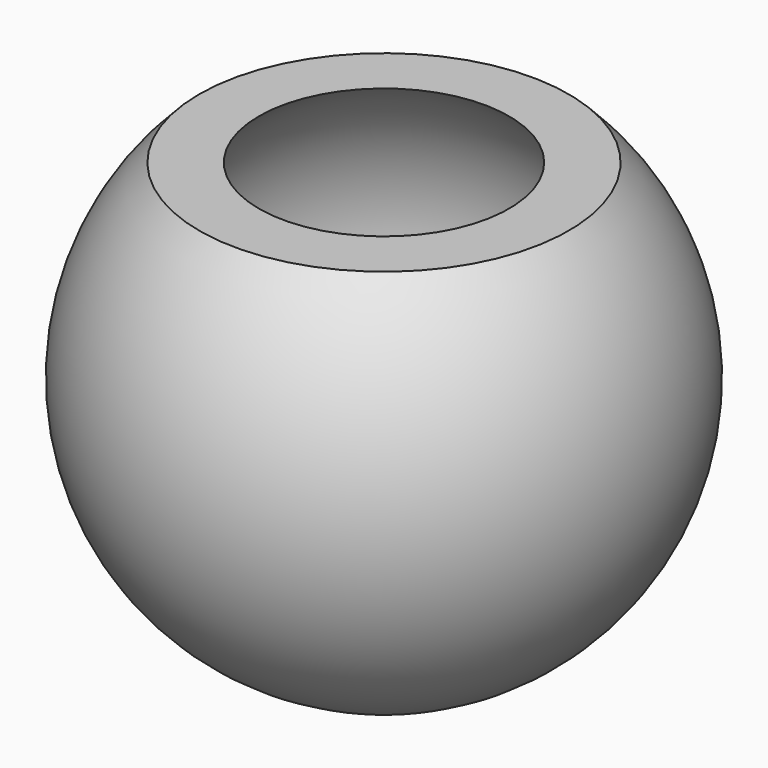
from build123d import *

# Parameters (mm, degrees)
F2_W     = 233.821573
F2_H     = 64.181482
F3_DEPTH = 63.5


with BuildPart() as f1:
    # F0 (on Front) → F1 (revolve)
    with BuildSketch(Plane.XZ):
        with BuildLine():
            ThreePointArc((0, -38.1), (-38.1, 0), (0, 38.1))
            Line((0, 38.1), (0, 44.45))
            ThreePointArc((0, 44.45), (-44.45, 0), (0, -44.45))
            Line((0, -44.45), (0, -38.1))
        make_face()
    revolve(axis=Axis((0, 0, 0), (0, 0, -1)))

    # F2 (on Right) → F3 (cut, symmetric)
    with BuildSketch(Plane.YZ):
        with Locations((5.654542, 63.840741)):
            Rectangle(F2_W, F2_H)
    extrude(amount=F3_DEPTH, both=True, mode=Mode.SUBTRACT)


solid = f1.part
